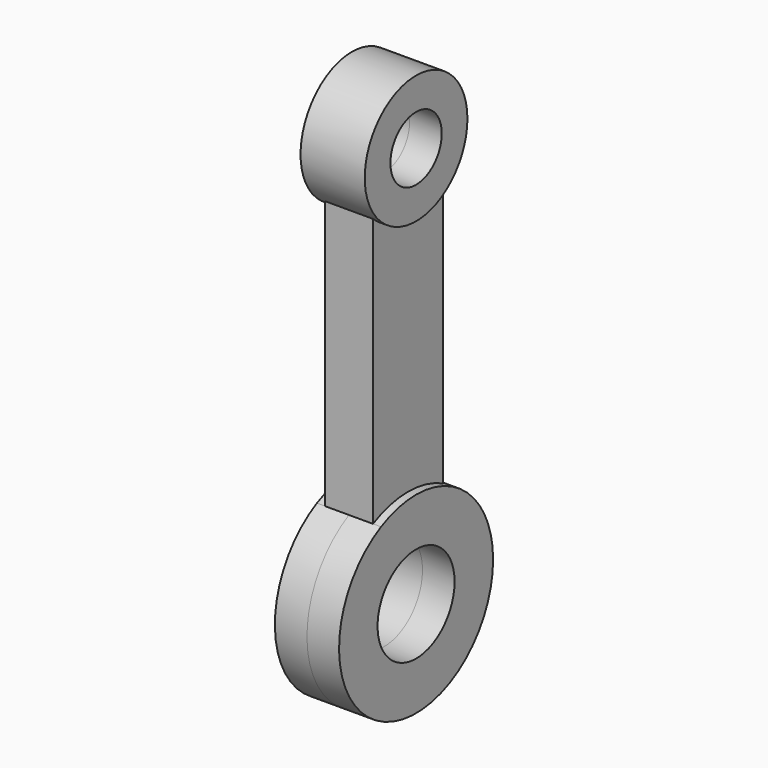
from build123d import *

# Parameters (mm, degrees)
F0_R     = 6
F1_DEPTH = 4
F0_R_2   = 4
F2_DEPTH = 3


with BuildPart() as f1:
    # F0 (on Right) → F1 (new body, symmetric)
    with BuildSketch(Plane.YZ):
        with BuildLine():
            ThreePointArc((-5.4605056446, 10.6856388721), (-6.2639417408, -10.2353814715), (12, 0))
            ThreePointArc((12, 0), (10.2353814715, 6.2639417408), (5.4605056446, 10.6856388721))
            ThreePointArc((5.4605056446, 10.6856388721), (0, 12), (-5.4605056446, 10.6856388721))
        make_face()
        Circle(F0_R, mode=Mode.SUBTRACT)
    extrude(amount=F1_DEPTH, both=True)



with BuildPart() as f1b:
    # F0 (on Right) → F1, piece 2 (new body, symmetric)
    with BuildSketch(Plane.YZ):
        with BuildLine():
            ThreePointArc((-5.4605056446, 44.1533874675), (0, 42), (5.4605056446, 44.1533874675))
            ThreePointArc((5.4605056446, 44.1533874675), (7.3377123532, 46.8128417953), (8, 50))
            ThreePointArc((8, 50), (-3.1871582047, 57.3377123532), (-5.4605056446, 44.1533874675))
        make_face()
        with Locations((0, 50)):
            Circle(F0_R_2, mode=Mode.SUBTRACT)
    extrude(amount=F1_DEPTH, both=True)


with BuildPart() as f1_1:
    add(f1.part)

    add(f1b.part)  # F2 merges F1b
    # F0 (on Right) → F2 (join, symmetric)
    with BuildSketch(Plane.YZ):
        with BuildLine():
            ThreePointArc((-5.4605056446, 10.6856388721), (0, 12), (5.4605056446, 10.6856388721))
            Line((5.4605056446, 10.6856388721), (5.4605056446, 44.1533874675))
            ThreePointArc((5.4605056446, 44.1533874675), (0, 42), (-5.4605056446, 44.1533874675))
            Line((-5.4605056446, 44.1533874675), (-5.4605056446, 10.6856388721))
        make_face()
    extrude(amount=F2_DEPTH, both=True)


solid = f1_1.part
